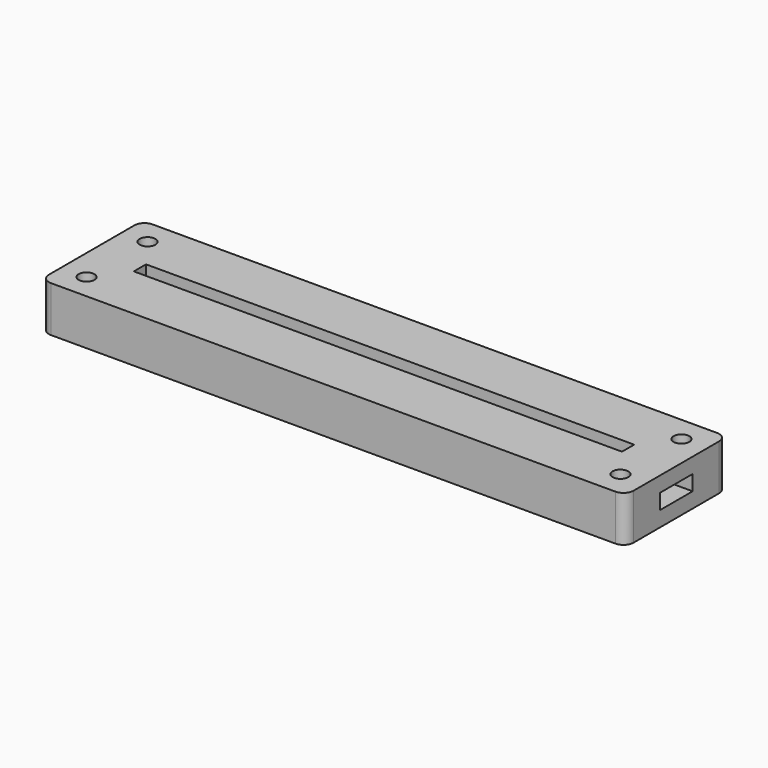
from build123d import *

# Parameters (mm, degrees)
SKETCH_W              = 115
SKETCH_H              = 25
PAD_DEPTH             = 3
PAD001_DEPTH          = 3
SKETCH002_W           = 115
SKETCH002_H           = 25
SKETCH002_W_2         = 96
SKETCH002_H_2         = 3
PAD002_DEPTH          = 3
SKETCH003_R           = 1.55
POCKET_DEPTH          = 245.060315
POLARPATTERN_COUNT    = 2
POLARPATTERN001_COUNT = 2
POLARPATTERN002_COUNT = 2
FILLET_R              = 2


with BuildPart() as part:
    # Sketch → Pad (new body)
    with BuildSketch(Plane.XY):
        Rectangle(SKETCH_W, SKETCH_H)
    extrude(amount=PAD_DEPTH)

    # Sketch001 (on Face6 of Pad) → Pad001 (join)
    with BuildSketch(Plane.XY.offset(3)):
        Polygon((-57.5, 12.5), (57.5, 12.5), (57.5, 4), (50, 4), (50, 5), (-50, 5), (-50, 4), (-57.5, 4), align=None)
        Polygon((-57.5, -12.5), (57.5, -12.5), (57.5, -4), (50, -4), (50, -5), (-50, -5), (-50, -4), (-57.5, -4), align=None)
    extrude(amount=PAD001_DEPTH)

    # Sketch002 (on Face12 of Pad001) → Pad002 (join)
    with BuildSketch(Plane.XY.offset(6)):
        Rectangle(SKETCH002_W, SKETCH002_H)
        Rectangle(SKETCH002_W_2, SKETCH002_H_2, mode=Mode.SUBTRACT)
    extrude(amount=PAD002_DEPTH)

    # Sketch003 (on Face26 of Pad002) → Pocket (cut, through all)
    with BuildSketch(Plane.XY.offset(9)):
        with Locations((-52.5, 7.5)):
            Circle(SKETCH003_R)
    pocket = extrude(amount=-POCKET_DEPTH, mode=Mode.SUBTRACT)

    # PolarPattern: Pocket ×2 about axis
    polarpattern_axis = Axis((0, 0, 0), (0, 1, 0))
    for i in range(1, POLARPATTERN_COUNT):
        add(pocket.rotate(polarpattern_axis, i * 360 / POLARPATTERN_COUNT), mode=Mode.SUBTRACT)

    # PolarPattern001: Pocket ×2 about axis
    polarpattern001_axis = Axis((0, 0, 0), (1, 0, 0))
    for i in range(1, POLARPATTERN001_COUNT):
        add(pocket.rotate(polarpattern001_axis, i * 360 / POLARPATTERN001_COUNT), mode=Mode.SUBTRACT)

    # PolarPattern002: Pocket ×2 about axis
    polarpattern002_axis = Axis((0, 0, 9), (0, 0, 1))
    for i in range(1, POLARPATTERN002_COUNT):
        add(pocket.rotate(polarpattern002_axis, i * 360 / POLARPATTERN002_COUNT), mode=Mode.SUBTRACT)

    # Fillet
    fillet_edges = [part.edges().sort_by_distance(p)[0] for p in [
        (57.5, 12.5, 7.5),
        (57.5, 12.5, 4.5),
        (57.5, 12.5, 1.5),
        (57.5, -12.5, 7.5),
        (-57.5, 12.5, 7.5),
        (-57.5, -12.5, 7.5),
    ]]
    fillet(fillet_edges, radius=FILLET_R)


solid = part.part
